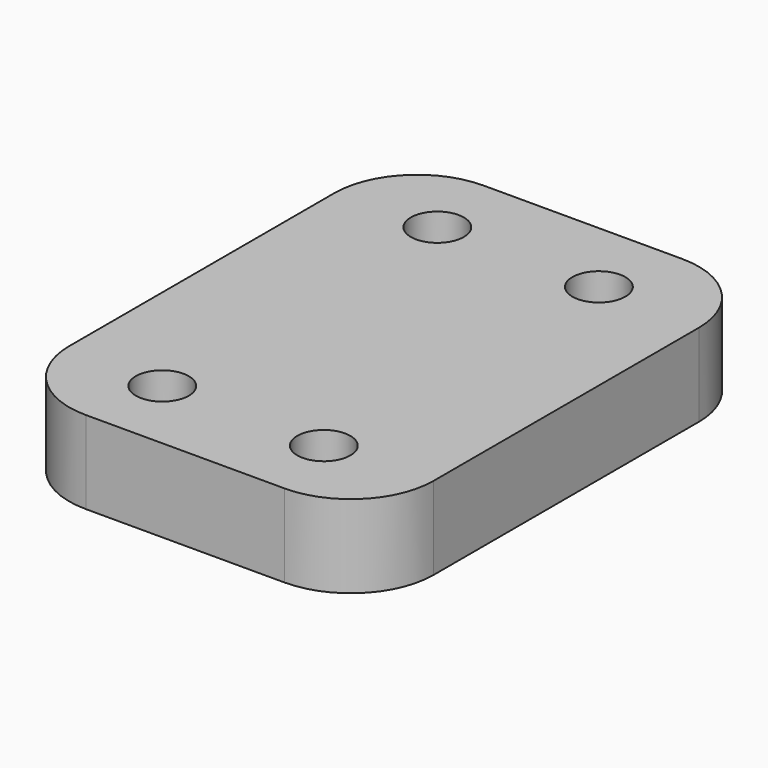
from build123d import *

# Parameters (mm, degrees)
F0_W     = 22
F0_H     = 30
F0_R     = 1.6
F1_DEPTH = 5
F2_R     = 5


with BuildPart() as f1:
    # F0 (on Top) → F1 (new body)
    with BuildSketch(Plane.XY):
        with Locations((-13.793651, 15)):
            Rectangle(F0_W, F0_H)
        with Locations((-18.828955, 4.568058)):
            Circle(F0_R, mode=Mode.SUBTRACT)
        with Locations((-9.078955, 4.568058)):
            Circle(F0_R, mode=Mode.SUBTRACT)
        with Locations((-18.828955, 25.318058)):
            Circle(F0_R, mode=Mode.SUBTRACT)
        with Locations((-9.078955, 25.318058)):
            Circle(F0_R, mode=Mode.SUBTRACT)
    extrude(amount=F1_DEPTH)

    # F2
    f2_edges = [f1.edges().sort_by_distance(p)[0] for p in [
        (-24.793651, 30, 2.5),
        (-24.793651, 0, 2.5),
        (-2.793651, 0, 2.5),
        (-2.793651, 30, 2.5),
    ]]
    fillet(f2_edges, radius=F2_R)


solid = f1.part
